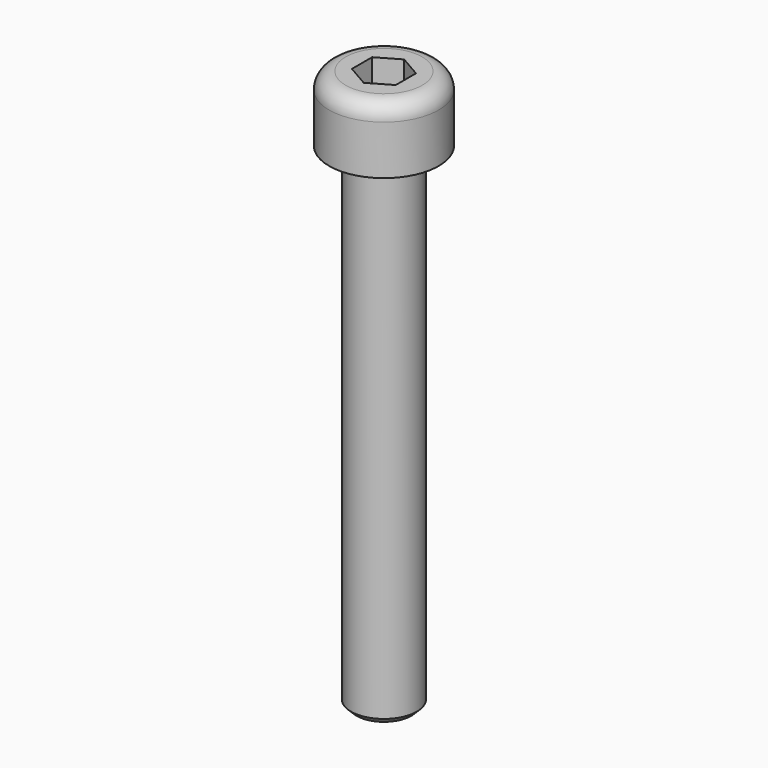
from build123d import *

# Parameters (mm, degrees)
F2_SIZE  = 0.5
F3_R     = 1.5
F5_DEPTH = 3


with BuildPart() as f1:
    # F0 (on Front) → F1 (revolve)
    with BuildSketch(Plane.XZ):
        Polygon((-3, 0), (0, 0), (0, 51), (-5, 51), (-5, 45), (-3, 45), align=None)
    revolve(axis=Axis((0, 0, 29.048277), (0, 0, 1)))

    # F2
    f2_edges = [f1.edges().sort_by_distance(p)[0] for p in [
        (3, 0, 0),
    ]]
    chamfer(f2_edges, length=F2_SIZE)

    # F3
    f3_edges = [f1.edges().sort_by_distance(p)[0] for p in [
        (5, 0, 51),
    ]]
    fillet(f3_edges, radius=F3_R)

    # F4 (on face) → F5 (cut)
    with BuildSketch(Plane.XY.offset(51)):
        Polygon((-2, 1.154701), (-2, -1.154701), (0, -2.309401), (2, -1.154701), (2, 1.154701), (0, 2.309401), align=None)
    extrude(amount=-F5_DEPTH, mode=Mode.SUBTRACT)


solid = f1.part
